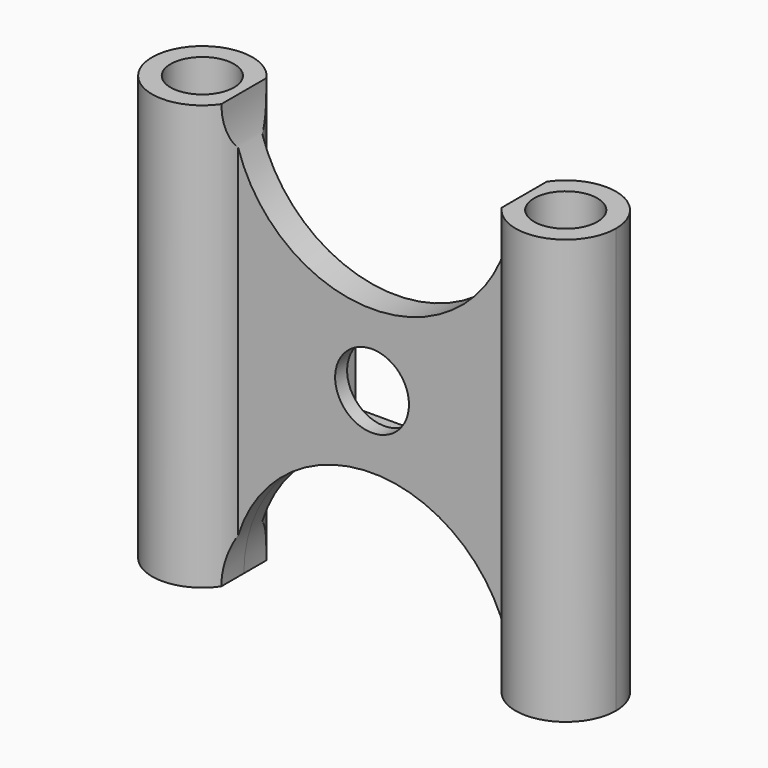
from build123d import *

# Parameters (mm, degrees)
F0_R     = 2.75
F1_DEPTH = 36.8
F2_R     = 3.2
F2_R_2   = 12.15
F3_DEPTH = 12.5
F4_W     = 7
F4_H     = 7
F5_DEPTH = 25


with BuildPart() as f1:
    # F0 (on Top) → F1 (new body)
    with BuildSketch(Plane.XY):
        with BuildLine():
            ThreePointArc((-11.5987953556, -1.3), (-11.4499860347, -0.657556004), (-11.4, 0))
            ThreePointArc((-11.4, 0), (-11.4499860347, 0.657556004), (-11.5987953556, 1.3))
            Line((-11.5987953556, 1.3), (-13, 1.3))
            Line((-13, 1.3), (-13, 0))
            Line((-13, 0), (-13, -1.3))
            Line((-13, -1.3), (-11.5987953556, -1.3))
        make_face()
        with BuildLine():
            ThreePointArc((-11.5987953556, 1.3), (-11.4499860347, 0.657556004), (-11.4, 0))
            ThreePointArc((-11.4, 0), (-11.4499860347, -0.657556004), (-11.5987953556, -1.3))
            Line((-11.5987953556, -1.3), (11.5987953556, -1.3))
            ThreePointArc((11.5987953556, -1.3), (11.4, 0), (11.5987953556, 1.3))
            Line((11.5987953556, 1.3), (-11.5987953556, 1.3))
        make_face()
        with BuildLine():
            Line((-13, 1.3), (-11.5987953556, 1.3))
            ThreePointArc((-11.5987953556, 1.3), (-20.1, 0), (-11.5987953556, -1.3))
            Line((-11.5987953556, -1.3), (-13, -1.3))
            Line((-13, -1.3), (-13, 0))
            Line((-13, 0), (-13, 1.3))
        make_face()
        with Locations((-15.75, 0)):
            Circle(F0_R, mode=Mode.SUBTRACT)
        with BuildLine():
            Line((13, 1.3), (11.5987953556, 1.3))
            ThreePointArc((11.5987953556, 1.3), (11.4, 0), (11.5987953556, -1.3))
            Line((11.5987953556, -1.3), (13, -1.3))
            Line((13, -1.3), (13, 0))
            Line((13, 0), (13, 1.3))
        make_face()
        with BuildLine():
            ThreePointArc((20.1, 0), (16.407556004, 4.3000139653), (11.5987953556, 1.3))
            Line((11.5987953556, 1.3), (13, 1.3))
            Line((13, 1.3), (13, 0))
            Line((13, 0), (13, -1.3))
            Line((13, -1.3), (11.5987953556, -1.3))
            ThreePointArc((11.5987953556, -1.3), (16.407556004, -4.3000139653), (20.1, 0))
        make_face()
        with BuildLine():
            ThreePointArc((18.5, 0), (15.75, -2.75), (13, 0))
            ThreePointArc((13, 0), (15.75, 2.75), (18.5, 0))
        make_face(mode=Mode.SUBTRACT)
    extrude(amount=F1_DEPTH)

    # F2 (on Front) → F3 (cut, symmetric)
    with BuildSketch(Plane.XZ):
        with Locations((0, 18.4)):
            Circle(F2_R)
        Circle(F2_R_2)
        with Locations((0, 36.8)):
            Circle(F2_R_2)
    extrude(amount=F3_DEPTH, both=True, mode=Mode.SUBTRACT)

    # F4 (on Front) → F5 (cut)
    with BuildSketch(Plane.XZ):
        with Locations((0, 18.4)):
            Rectangle(F4_W, F4_H)
    extrude(amount=-F5_DEPTH, mode=Mode.SUBTRACT)


solid = f1.part
